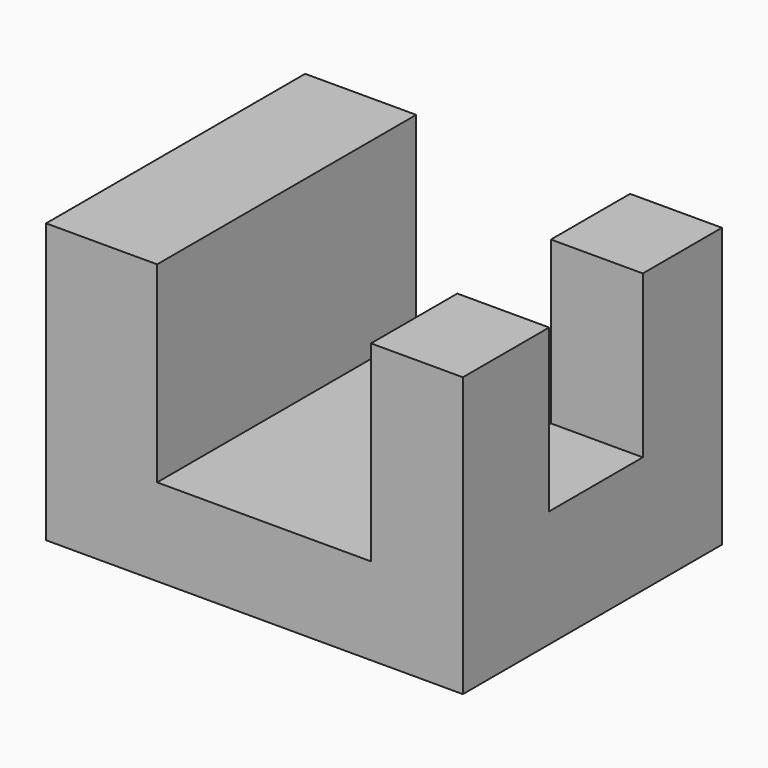
from build123d import *

# Parameters (mm, degrees)
F1_DEPTH = 50.8
F2_W     = 14.4103989005
F2_H     = 18.3605216444
F3_DEPTH = 25.4


with BuildPart() as f1:
    # F0 (on Front) → F1 (new body)
    with BuildSketch(Plane.XZ):
        Polygon((0, 43.7689125538), (0, 0), (65.3845146298, 0), (65.3845146298, 43.7689125538), (50.9741157293, 43.7689125538), (50.9741157293, 13.6576220393), (17.4215342849, 13.6576220393), (17.4215342849, 43.7689125538), align=None)
        Polygon((0, 43.7689125538), (0, 0), (65.3845146298, 0), (65.3845146298, 43.7689125538), (50.9741157293, 43.7689125538), (50.9741157293, 13.6576220393), (17.4215342849, 13.6576220393), (17.4215342849, 43.7689125538), align=None)
    extrude(amount=F1_DEPTH)

    # F2 (on face) → F3 (cut)
    with BuildSketch(Plane.XY.offset(43.7689125538)):
        with Locations((58.1793151796, -24.6975105256)):
            Rectangle(F2_W, F2_H)
    extrude(amount=-F3_DEPTH, mode=Mode.SUBTRACT)


solid = f1.part
